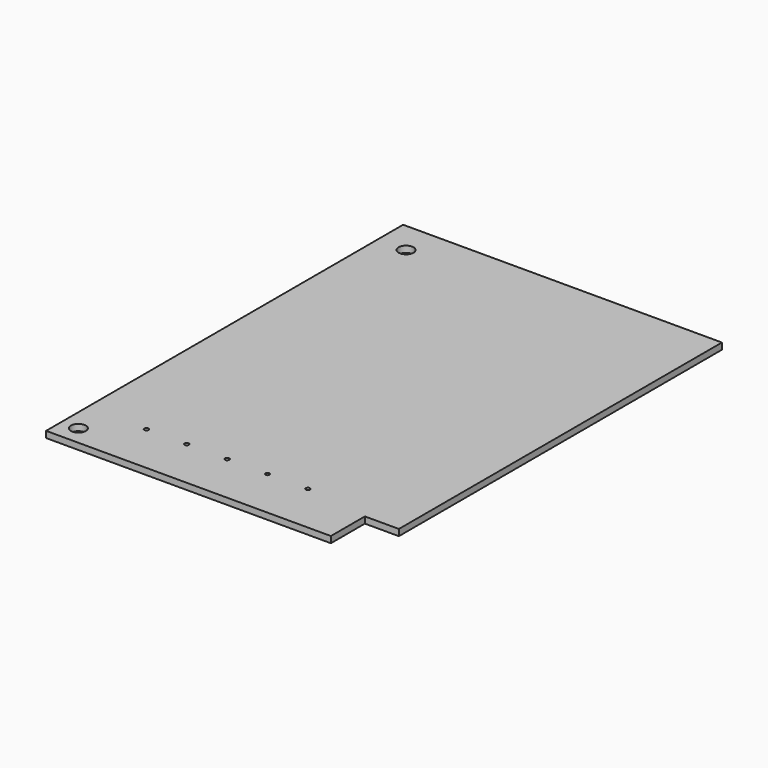
from build123d import *

# Parameters (mm, degrees)
SKETCH_R   = 1.75
SKETCH_R_2 = 0.5
PAD_DEPTH  = 1.5


with BuildPart() as part:
    # Sketch → Pad (new body)
    with BuildSketch(Plane.XY):
        Polygon((-37.5, 52.5), (37.5, 52.5), (37.5, -42.5), (29.5, -42.5), (29.5, -52.5), (-37.5, -52.5), align=None)
        with Locations((-33.5, -48)):
            Circle(SKETCH_R, mode=Mode.SUBTRACT)
        with Locations((-30.8, 45)):
            Circle(SKETCH_R, mode=Mode.SUBTRACT)
        with Locations((-23.5, -40.5)):
            Circle(SKETCH_R_2, mode=Mode.SUBTRACT)
        with Locations((-14, -40.5)):
            Circle(SKETCH_R_2, mode=Mode.SUBTRACT)
        with Locations((-4.5, -40.5)):
            Circle(SKETCH_R_2, mode=Mode.SUBTRACT)
        with Locations((5, -40.5)):
            Circle(SKETCH_R_2, mode=Mode.SUBTRACT)
        with Locations((14.5, -40.5)):
            Circle(SKETCH_R_2, mode=Mode.SUBTRACT)
    extrude(amount=PAD_DEPTH)


solid = part.part
